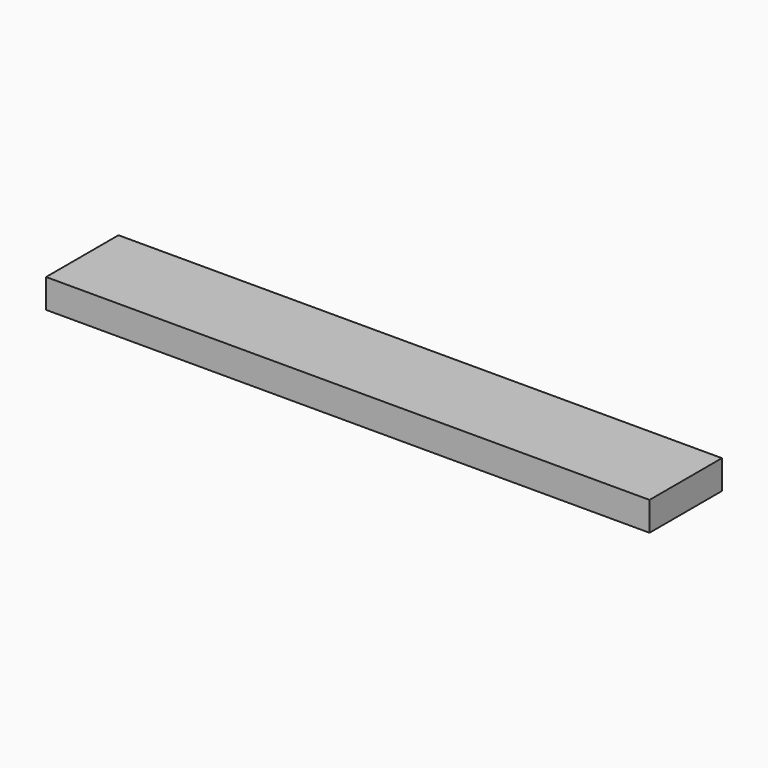
from build123d import *

# Parameters (mm, degrees)
F1_DEPTH = 166.75
F2_W     = 50
F2_H     = 16
F3_DEPTH = 2
F4_W     = 50
F4_H     = 16
F5_DEPTH = 2


with BuildPart() as f1:
    # F0 (on Right) → F1 (new body, symmetric)
    with BuildSketch(Plane.YZ):
        with BuildLine():
            Line((25, -6), (25, 8))
            Line((25, 8), (-25, 8))
            Line((-25, 8), (-25, -8))
            Line((-25, -8), (23, -8))
            ThreePointArc((23, -8), (23.5857864376, -6.5857864376), (25, -6))
        make_face()
    extrude(amount=F1_DEPTH, both=True)

    # F2 (on face) → F3 (join)
    with BuildSketch(Plane(origin=(0, 25, 0), x_dir=(-1, 0, 0), z_dir=(0, 1, 0))):
        with Locations((-141.75, 0)):
            Rectangle(F2_W, F2_H)
    extrude(amount=-F3_DEPTH)

    # F4 (on face) → F5 (join)
    with BuildSketch(Plane(origin=(0, 25, 0), x_dir=(-1, 0, 0), z_dir=(0, 1, 0))):
        with Locations((141.75, 0)):
            Rectangle(F4_W, F4_H)
    extrude(amount=-F5_DEPTH)

    # F6 (on face) → F7 (revolve, cut)
    with BuildSketch(Plane(origin=(0, 0, -8), x_dir=(1, 0, 0), z_dir=(0, 0, -1))):
        with BuildLine():
            Line((116.75, -25), (116.75, -23))
            ThreePointArc((116.75, -23), (114.75, -25), (116.75, -27))
            Line((116.75, -27), (116.75, -25))
        make_face()
    revolve(axis=Axis((116.75, 25, -8), (0, 1, 0)), mode=Mode.SUBTRACT)

    # F8 (on face) → F9 (revolve, cut)
    with BuildSketch(Plane(origin=(0, 25, 0), x_dir=(-1, 0, 0), z_dir=(0, 1, 0))):
        with BuildLine():
            Line((116.75, -8), (116.75, -6))
            ThreePointArc((116.75, -6), (114.75, -8), (116.75, -10))
            Line((116.75, -10), (116.75, -8))
        make_face()
    revolve(axis=Axis((-116.75, 25, -8), (0, 0, -1)), mode=Mode.SUBTRACT)


solid = f1.part
